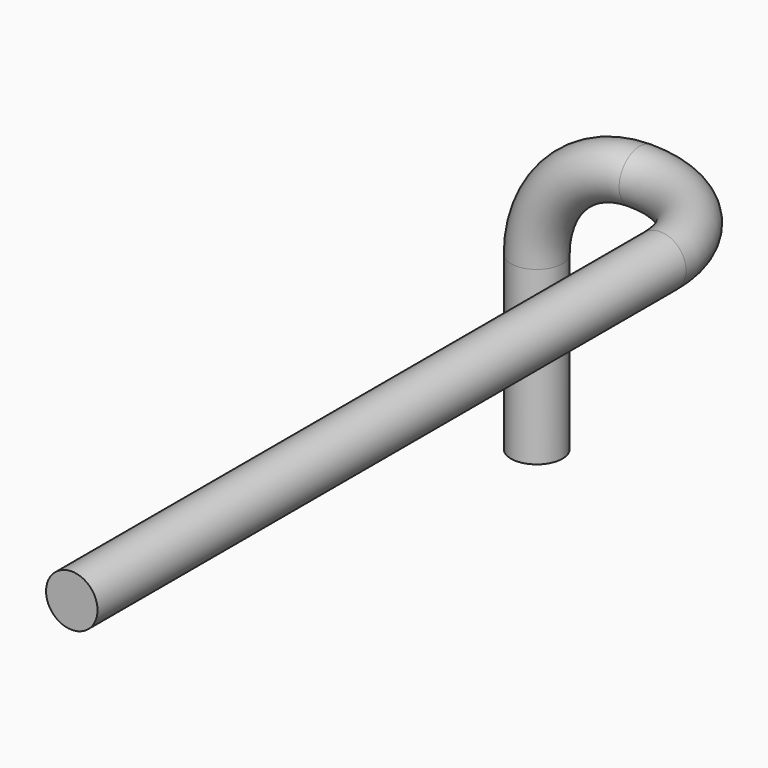
from build123d import *

# Parameters (mm, degrees)
F2_R = 4.7625
F5_R = 4.7625


with BuildPart() as f3:
    # F3: sweep along a path in F0
    with BuildLine(Plane.XZ) as f3_path:
        Line((-19.05, -50.8), (-19.05, -19.05))
        ThreePointArc((-19.05, -19.05), (-13.4703841816, -5.5796158184), (0, 0))
    # F2 (on plane+point) → F3 (sweep)
    with BuildSketch(Plane.XY.offset(-50.8)):
        with Locations((-19.05, 0)):
            Circle(F2_R)
    sweep(path=f3_path.line)

    # F6: sweep along a path in F4
    with BuildLine(Plane.XY) as f6_path:
        ThreePointArc((0, 0), (13.4703841816, -5.5796158184), (19.05, -19.05))
        Line((19.05, -19.05), (19.05, -155.160978115))
    # F5 (on face) → F6 (sweep)
    with BuildSketch(Plane.YZ):
        Circle(F5_R)
    sweep(path=f6_path.line)


solid = f3.part
